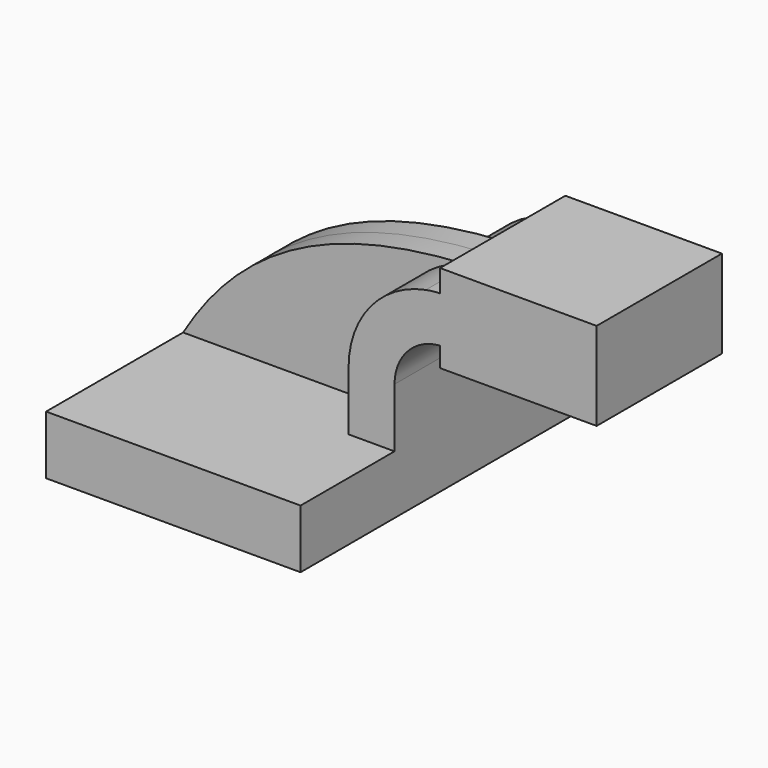
from build123d import *

# Parameters (mm, degrees)
F1_DEPTH = 63.5
F2_DEPTH = 25.4
F3_DEPTH = 7.9375


with BuildPart() as f1:
    # F0 (on Front) → F1 (new body, symmetric)
    with BuildSketch(Plane.XZ):
        Polygon((26.376324, 9.525), (-41.275, 9.525), (-41.275, -9.525), (41.275, -9.525), (41.275, 9.525), align=None)
    extrude(amount=F1_DEPTH, both=True)

    # F0 (on Front) → F2 (join, symmetric)
    with BuildSketch(Plane.XZ):
        with BuildLine():
            Line((26.376324, 28.684646), (26.376324, 9.525))
            Line((26.376324, 9.525), (41.275, 9.525))
            Line((41.275, 9.525), (41.275, 28.684646))
            ThreePointArc((41.275, 28.684646), (45.538798, 39.510339), (56.039803, 44.520778))
            Line((56.039803, 44.520778), (56.039803, 59.43829))
            ThreePointArc((56.039803, 59.43829), (53.712029, 59.265678), (51.404034, 58.917129))
            ThreePointArc((51.404034, 58.917129), (33.44511, 48.308543), (26.376324, 28.684646))
        make_face()
        Polygon((56.039803, 66.675), (56.039803, 59.43829), (56.039803, 44.520778), (56.039803, 38.144724), (56.039803, 38.1), (106.839803, 38.1), (106.839803, 66.675), align=None)
    extrude(amount=F2_DEPTH, both=True)

    # F0 (on Front) → F3 (join, symmetric)
    with BuildSketch(Plane.XZ):
        with BuildLine():
            add(Edge.make_bspline(
                [(-41.275, 9.525), (-21.080984, 43.4733), (9.512173, 56.584653), (51.404034, 58.917129)],
                knots=[0, 0, 0, 0, 105.018978, 105.018978, 105.018978, 105.018978], degree=3))
            Line((-41.275, 9.525), (26.376324, 9.525))
            Line((26.376324, 9.525), (26.376324, 28.684646))
            ThreePointArc((26.376324, 28.684646), (33.44511, 48.308543), (51.404034, 58.917129))
        make_face()
    extrude(amount=F3_DEPTH, both=True)


solid = f1.part
